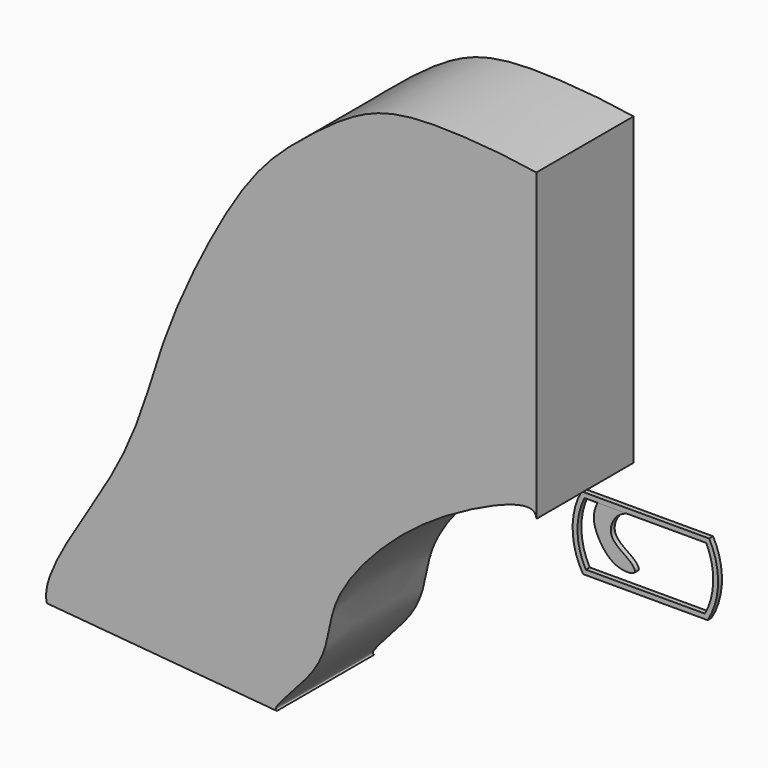
from build123d import *

# Parameters (mm, degrees)
F1_DEPTH = 25
F3_DEPTH = 1
F6_DEPTH = 13.0010001
F8_DEPTH = 1


with BuildPart() as f1:
    # F0 (on Front) → F1 (new body)
    with BuildSketch(Plane.XZ):
        with BuildLine():
            add(Edge.make_bspline(
                [(0, 0), (0, 3.4083144274), (-16.6549813741, -3.2320742065), (-32.0311581493, -14.6211575017), (-43.3669660673, -29.3745837617), (-42.2863415878, -41.1619123461), (-54.8915026972, -51.8595739448), (-53.4006319743, -52.1576157642)],
                knots=[0, 0, 0, 0, 0.1860858001, 0.4300383958, 0.6365859105, 0.8216787516, 0.9947951303, 0.9947951303, 0.9947951303, 0.9947951303], degree=3))
            Line((0, 0), (0, 62.765))
            add(Edge.make_bspline(
                [(0, 62.765), (-5.5803138545, 63.7060054226), (-17.7846741419, 64.8728993234), (-33.3677106974, 64.2657058885), (-46.4495900747, 54.7326189691), (-57.592300277, 45.3035539124), (-67.8209095657, 28.267240425), (-78.1080050837, 5.7247986196), (-83.4130805825, -18.1439880956), (-102.3368853739, -42.4874116283), (-100.7174625993, -48.0397306383)],
                knots=[0, 0, 0, 0, 0.1171636173, 0.2256099251, 0.3343892274, 0.4398163618, 0.5623254612, 0.6982797919, 0.8436281409, 1, 1, 1, 1], degree=3))
            Line((-100.7174625993, -48.0397306383), (-53.4006319743, -52.1576157642))
        make_face()
    extrude(amount=F1_DEPTH)


with BuildPart() as f3:
    # F2 (on Front) → F3 (new body)
    with BuildSketch(Plane.XZ):
        with BuildLine():
            Line((25.9660863789, 0.0174377142), (-0.2982162396, 0.0174377142))
            ThreePointArc((-0.2982162396, 0.0174377142), (-2.1332085332, -7.4691667501), (0, -14.8763163015))
            Line((0, -14.8763163015), (25.6678701393, -14.8763163015))
            ThreePointArc((25.6678701393, -14.8763163015), (27.8010786725, -7.4691667501), (25.9660863789, 0.0174377142))
        make_face()
    extrude(amount=F3_DEPTH)


with BuildPart() as f3_1:
    # F4: moved
    add(f3.part.moved(Location((0, -12, 0))))

    # F5 (on face) → F6 (cut, through all)
    with BuildSketch(Plane.XZ.offset(13)):
        with BuildLine():
            Line((0.5790065625, -13.8763163015), (25.0888635768, -13.8763163015))
            ThreePointArc((25.0888635768, -13.8763163015), (26.8010048388, -7.4625237611), (25.3593870907, -0.9825622858))
            Line((25.3593870907, -0.9825622858), (0.3084830487, -0.9825622858))
            ThreePointArc((0.3084830487, -0.9825622858), (-1.1331346994, -7.4625237611), (0.5790065625, -13.8763163015))
        make_face()
    extrude(amount=-F6_DEPTH, mode=Mode.SUBTRACT)


with BuildPart() as f8:
    # F7 (on face) → F8 (new body)
    with BuildSketch(Plane.XZ.offset(13)):
        with BuildLine():
            Line((8.9481789619, -0.9825622858), (2.9548949096, -0.9825622858))
            add(Edge.make_bspline(
                [(2.9548949096, -0.9825622858), (2.5280445902, -1.9786113454), (1.7664584568, -4.1919341723), (3.5449416563, -8.4365367966), (6.7472864505, -11.7472984064), (11.4353371147, -11.5719426774), (9.9126533497, -9.4437177641), (8.0472075098, -8.2999458011), (4.9981559546, -5.9454601786), (6.5088606114, -2.0672568949), (8.1781559475, -1.2901534359), (8.9481789619, -0.9825622858)],
                knots=[0, 0, 0, 0, 0.1126486397, 0.2433554846, 0.379653427, 0.4925083836, 0.5697644239, 0.6681105723, 0.7829739383, 0.8992222474, 1, 1, 1, 1], degree=3))
        make_face()
    extrude(amount=-F8_DEPTH)


solid = Compound([f1.part, f3_1.part, f8.part])
